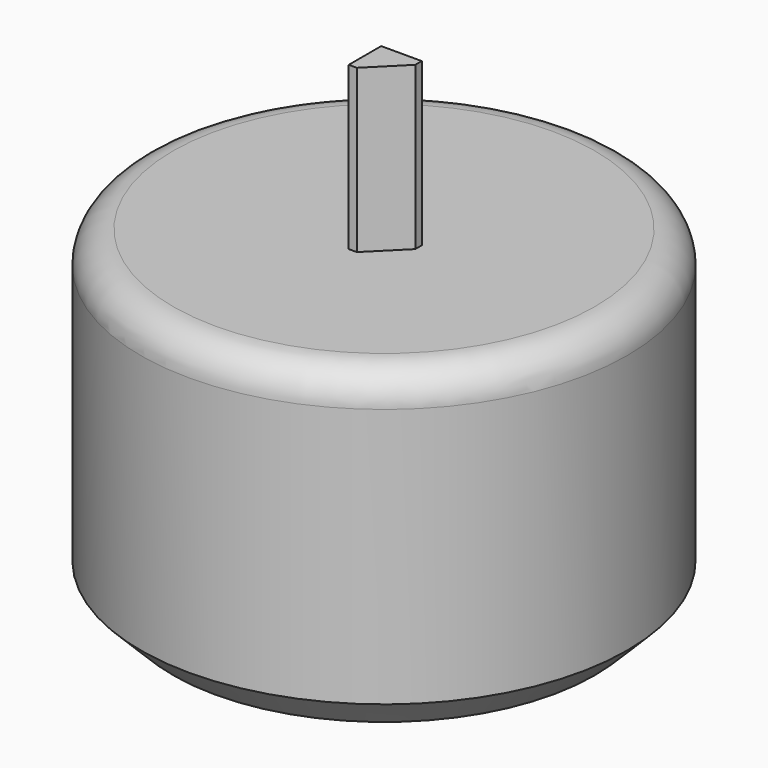
from build123d import *

# Parameters (mm, degrees)
F0_R     = 38.1
F1_DEPTH = 50.8
F2_W     = 6.35
F2_H     = 6.35
F3_DEPTH = 76.2
F4_R     = 5.08
F5_SIZE  = 5.08


with BuildPart() as f1:
    # F0 (on Top) → F1 (new body)
    with BuildSketch(Plane.XY):
        Circle(F0_R)
    extrude(amount=F1_DEPTH)

    # F2 (on Top) → F3 (join)
    with BuildSketch(Plane.XY):
        with Locations((3.175, -3.723586)):
            Rectangle(F2_W, F2_H)
    extrude(amount=F3_DEPTH)

    # F4
    f4_edges = [f1.edges().sort_by_distance(p)[0] for p in [
        (-38.1, 0, 50.8),
    ]]
    fillet(f4_edges, radius=F4_R)

    # F5
    f5_edges = [f1.edges().sort_by_distance(p)[0] for p in [
        (6.35, -6.898586, 63.5),
        (-38.1, 0, 0),
    ]]
    chamfer(f5_edges, length=F5_SIZE)


solid = f1.part
